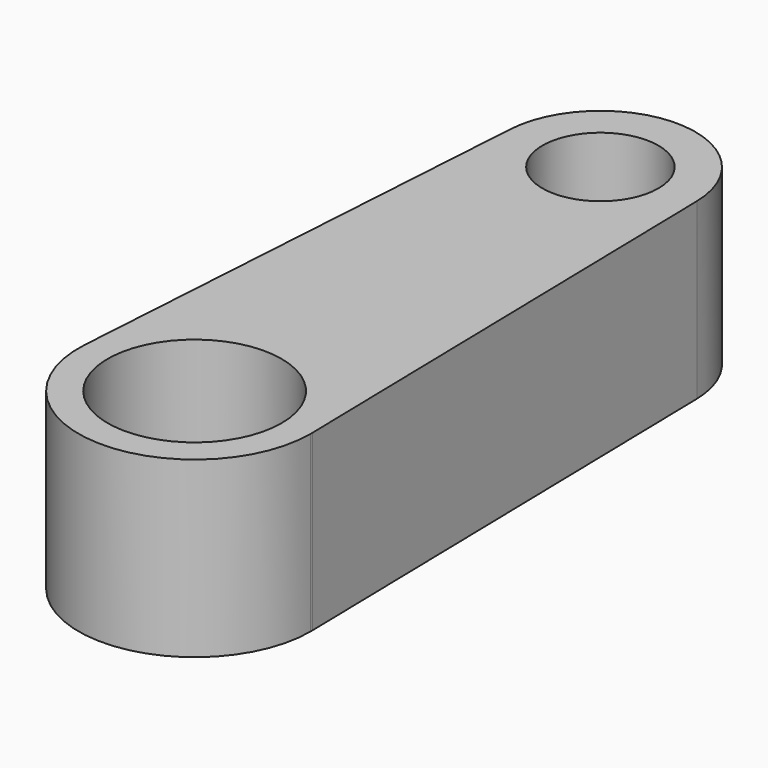
from build123d import *

# Parameters (mm, degrees)
F0_R     = 6.35
F0_R_2   = 9.525
F1_DEPTH = 19.05


with BuildPart() as f1:
    # F0 (on Top) → F1 (new body)
    with BuildSketch(Plane.XY):
        with BuildLine():
            ThreePointArc((23.856802, 68.497253), (23.856237, 68.605633), (23.854543, 68.714001))
            ThreePointArc((23.854543, 68.714001), (13.685154, 78.892486), (3.082928, 69.165676))
            ThreePointArc((3.082928, 69.165676), (13.124727, 58.104941), (23.856802, 68.497253))
        make_face()
        with Locations((13.459112, 68.497253)):
            Circle(F0_R, mode=Mode.SUBTRACT)
        with BuildLine():
            ThreePointArc((-0.390204, 15.250903), (12.559621, 27.131474), (24.980767, 14.699216))
            Line((24.980767, 14.699216), (23.854543, 68.714001))
            ThreePointArc((23.854543, 68.714001), (23.856237, 68.605633), (23.856802, 68.497253))
            ThreePointArc((23.856802, 68.497253), (13.124727, 58.104941), (3.082928, 69.165676))
            Line((3.082928, 69.165676), (-0.390204, 15.250903))
        make_face()
        with BuildLine():
            ThreePointArc((-0.390204, 15.250903), (11.875102, 1.741044), (24.983527, 14.434475))
            ThreePointArc((24.983527, 14.434475), (24.982837, 14.566853), (24.980767, 14.699216))
            ThreePointArc((24.980767, 14.699216), (12.559621, 27.131474), (-0.390204, 15.250903))
        make_face()
        with Locations((12.283527, 14.434475)):
            Circle(F0_R_2, mode=Mode.SUBTRACT)
    extrude(amount=F1_DEPTH)


solid = f1.part
